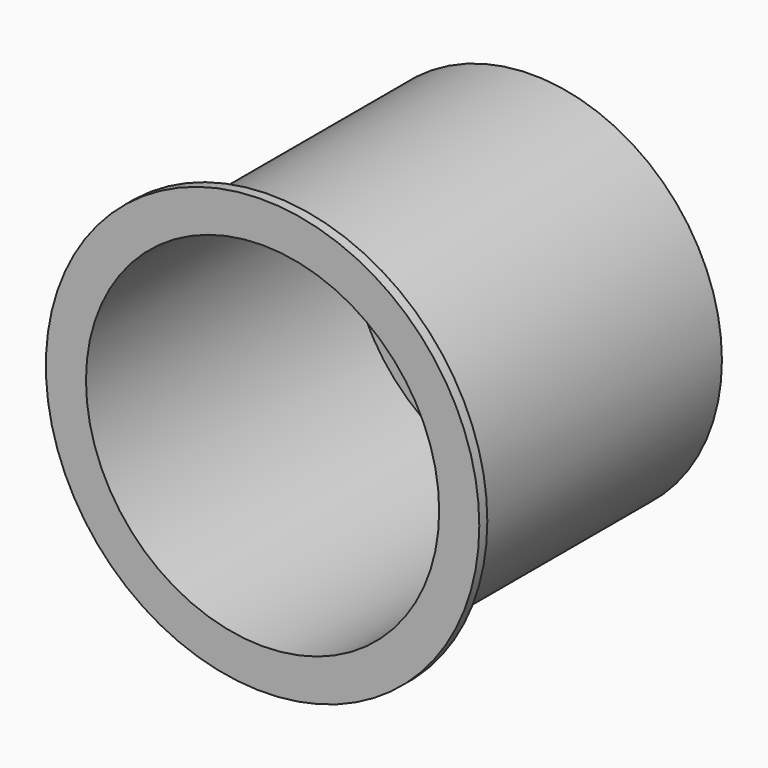
from build123d import *

# Parameters (mm, degrees)
CYLINDER020_R             = 44
CYLINDER020_DEPTH         = 2.5
CYLINDER018_R             = 54
CYLINDER018_DEPTH         = 2.5
CYLINDER019_R             = 44
CYLINDER019_DEPTH         = 79.5
CYLINDER017_R             = 47.25
CYLINDER017_DEPTH         = 81.5
FUSION004_PLACEMENT_ANGLE = 90


with BuildPart() as cylinder016:
    # Cylinder020 → Cylinder020 (new body)
    with BuildSketch(Plane.XY.offset(-2.5)):
        Circle(CYLINDER020_R)
    extrude(amount=CYLINDER020_DEPTH)


with BuildPart() as cut004003:
    # Cylinder018 → Cylinder018 (new body)
    with BuildSketch(Plane.XY.offset(-2.5)):
        Circle(CYLINDER018_R)
    extrude(amount=CYLINDER018_DEPTH)

    # Cut004003: cut Cylinder016
    add(cylinder016.part, mode=Mode.SUBTRACT)


with BuildPart() as cylinder015:
    # Cylinder019 → Cylinder019 (new body)
    with BuildSketch(Plane.XY):
        Circle(CYLINDER019_R)
    extrude(amount=CYLINDER019_DEPTH)


with BuildPart() as cup:
    # Cylinder017 → Cylinder017 (new body)
    with BuildSketch(Plane.XY):
        Circle(CYLINDER017_R)
    extrude(amount=CYLINDER017_DEPTH)

    # Cut004002: cut Cylinder015
    add(cylinder015.part, mode=Mode.SUBTRACT)

    # Fusion004: union Cut004003
    add(cut004003.part)


with BuildPart() as cup_1:
    # Fusion004 placement: moved
    add(cup.part.moved(Location((75, 2.5, 74.5))).rotate(Axis((75, 2.5, 74.5), (-1, 0, 0)), FUSION004_PLACEMENT_ANGLE))


solid = cup_1.part
